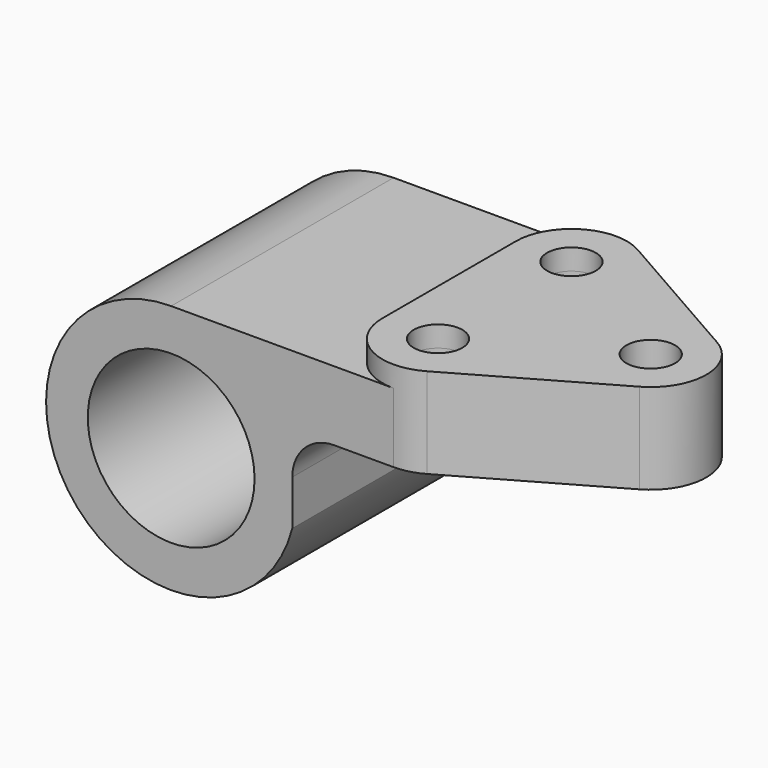
from build123d import *

# Parameters (mm, degrees)
F0_R     = 19.05
F1_DEPTH = 63.5
F2_R     = 5.5626
F3_DEPTH = 4.7752
F4_DEPTH = 4.7752
F5_DEPTH = 15.875
F6_DEPTH = 20.6502
F7_R     = 5.5626
F8_DEPTH = 20.6502
F9_DEPTH = 15.875


with BuildPart() as f1:
    # F0 (on Front) → F1 (new body)
    with BuildSketch(Plane.XZ):
        with BuildLine():
            Line((69.85, 28.575), (0, 28.575))
            ThreePointArc((0, 28.575), (-22.5905210348, -17.49854235), (27.6676247795, -7.14375))
            Line((27.6676247795, -7.14375), (27.6676247795, 3.175))
            ThreePointArc((27.6676247795, 3.175), (30.4574326887, 9.9101920908), (37.1926247795, 12.7))
            Line((37.1926247795, 12.7), (69.85, 12.7))
            Line((69.85, 12.7), (69.85, 28.575))
        make_face()
        Circle(F0_R, mode=Mode.SUBTRACT)
    extrude(amount=F1_DEPTH)

    # F2 (on face) → F3 (join)
    with BuildSketch(Plane.XY.offset(28.575)):
        with BuildLine():
            Line((90.4493554441, -20.7222785358), (57.0991554441, -1.6722785358))
            ThreePointArc((57.0991554441, -1.6722785358), (44.4246284085, -1.7161647377), (38.1, -12.7))
            Line((38.1, -12.7), (38.1, -50.8))
            ThreePointArc((38.1, -50.8), (44.4246284085, -61.7838352623), (57.0991554441, -61.8277214642))
            Line((57.0991554441, -61.8277214642), (90.4493554441, -42.7777214642))
            ThreePointArc((90.4493554441, -42.7777214642), (96.8502, -31.75), (90.4493554441, -20.7222785358))
        make_face()
        with Locations((50.8, -50.8)):
            Circle(F2_R, mode=Mode.SUBTRACT)
        with Locations((50.8, -12.7)):
            Circle(F2_R, mode=Mode.SUBTRACT)
        with Locations((84.1502, -31.75)):
            Circle(F2_R, mode=Mode.SUBTRACT)
        with Locations((84.1502, -31.75)):
            Circle(F2_R)
    extrude(amount=F3_DEPTH)

    # F2 (on face) → F4 (join)
    with BuildSketch(Plane.XY.offset(28.575)):
        with BuildLine():
            Line((90.4493554441, -20.7222785358), (57.0991554441, -1.6722785358))
            ThreePointArc((57.0991554441, -1.6722785358), (44.4246284085, -1.7161647377), (38.1, -12.7))
            Line((38.1, -12.7), (38.1, -50.8))
            ThreePointArc((38.1, -50.8), (44.4246284085, -61.7838352623), (57.0991554441, -61.8277214642))
            Line((57.0991554441, -61.8277214642), (90.4493554441, -42.7777214642))
            ThreePointArc((90.4493554441, -42.7777214642), (96.8502, -31.75), (90.4493554441, -20.7222785358))
        make_face()
        with Locations((50.8, -50.8)):
            Circle(F2_R, mode=Mode.SUBTRACT)
        with Locations((50.8, -12.7)):
            Circle(F2_R, mode=Mode.SUBTRACT)
        with Locations((84.1502, -31.75)):
            Circle(F2_R, mode=Mode.SUBTRACT)
    extrude(amount=F4_DEPTH)

    # F5 (cut, through all): faces of the model
    f5_faces = [f1.faces().sort_by_distance(p)[0] for p in [
        (64.480850076, -2.9493294549, 28.575),
        (64.480850076, -60.5506705451, 28.575),
    ]]
    extrude(f5_faces, amount=-F5_DEPTH, mode=Mode.SUBTRACT)

    # F6 (cut): faces of the model
    f6_faces = [f1.faces().sort_by_distance(p)[0] for p in [
        (50.8, -12.7, 28.575),
        (50.8, -50.8, 28.575),
    ]]
    extrude(f6_faces, amount=-F6_DEPTH, mode=Mode.SUBTRACT)

    # F7 (on face) → F8 (cut)
    with BuildSketch(Plane.XY.offset(33.3502)):
        with Locations((84.1502, -31.75)):
            Circle(F7_R)
    extrude(amount=-F8_DEPTH, mode=Mode.SUBTRACT)

    # F9 (add, through all): a face of the model
    f9_faces = [f1.faces().sort_by_distance(p)[0] for p in [
        (96.3203574662, -31.75, 28.575),
    ]]
    extrude(f9_faces, amount=F9_DEPTH)


solid = f1.part
